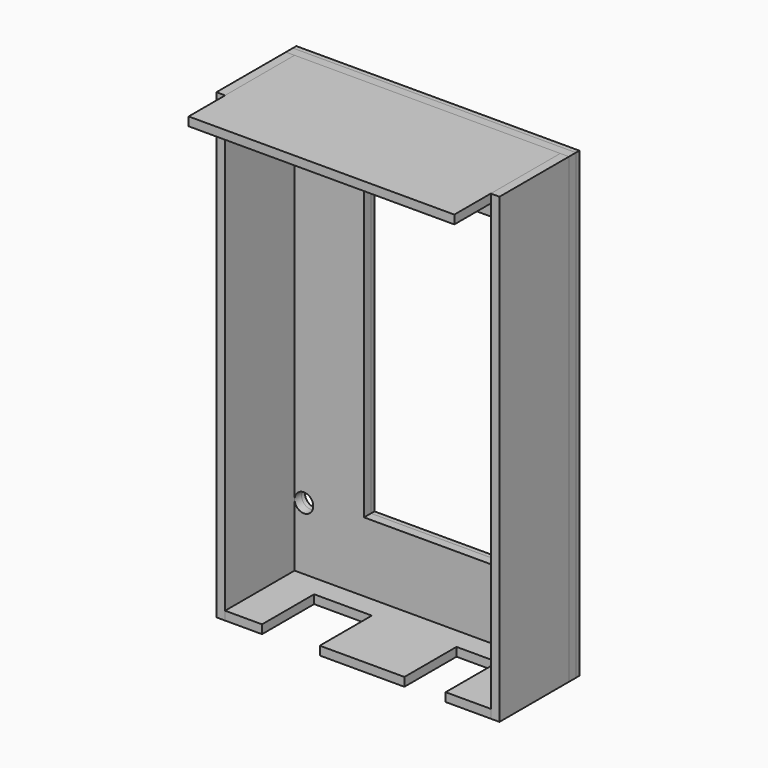
from build123d import *

# Parameters (mm, degrees)
F0_W      = 65.2
F0_H      = 106.5
F0_R      = 2.15
F0_W_2    = 29.2
F0_H_2    = 70.5
F1_DEPTH  = 3
F2_W      = 20
F2_H      = 106.5
F3_DEPTH  = 2
F4_W      = 20
F4_H      = 106.5
F5_DEPTH  = 2
F6_W      = 61.2
F6_H      = 30.5
F7_DEPTH  = 2
F9_DEPTH  = 2
F10_DEPTH = 2


with BuildPart() as f1:
    # F0 (on Front) → F1 (new body)
    with BuildSketch(Plane.XZ):
        with Locations((32.6, -53.25)):
            Rectangle(F0_W, F0_H)
        with Locations((4.15, -90.05)):
            Circle(F0_R, mode=Mode.SUBTRACT)
        with BuildLine():
            ThreePointArc((61.05, -91), (59.5297204204, -87.3297204204), (63.2, -88.85))
            ThreePointArc((63.2, -88.85), (62.5702795796, -90.3702795796), (61.05, -91))
        make_face(mode=Mode.SUBTRACT)
        with Locations((4.15, -7.15)):
            Circle(F0_R, mode=Mode.SUBTRACT)
        with Locations((32.6, -53.25)):
            Rectangle(F0_W_2, F0_H_2, mode=Mode.SUBTRACT)
        with Locations((61.05, -14.15)):
            Circle(F0_R, mode=Mode.SUBTRACT)
    extrude(amount=-F1_DEPTH)


with BuildPart() as f3:
    # F2 (on face) → F3 (new body)
    with BuildSketch(Plane.YZ.offset(65.2)):
        with Locations((-10, -53.25)):
            Rectangle(F2_W, F2_H)
    extrude(amount=-F3_DEPTH)


with BuildPart() as f5:
    # F4 (on face) → F5 (new body)
    with BuildSketch(Plane(origin=(0, 0, 0), x_dir=(0, -1, 0), z_dir=(-1, 0, 0))):
        with Locations((10, -53.25)):
            Rectangle(F4_W, F4_H)
    extrude(amount=-F5_DEPTH)


with BuildPart() as f7:
    # F6 (on face) → F7 (new body)
    with BuildSketch(Plane.XY):
        with Locations((32.6, -15.25)):
            Rectangle(F6_W, F6_H)
    extrude(amount=-F7_DEPTH)


with BuildPart() as f9:
    # F8 (on face) → F9 (new body)
    with BuildSketch(Plane(origin=(0, 0, -106.5), x_dir=(1, 0, 0), z_dir=(0, 0, -1))):
        Polygon((2, 20), (2, 0), (63.2, 0), (63.2, 20), (52.8, 20), (52.8, 5), (43.3, 5), (43.3, 20), (23.8, 20), (23.8, 5), (10.5, 5), (10.5, 20), align=None)
    extrude(amount=-F9_DEPTH)


with BuildPart() as f10:
    # F0 (on Front) → F10 (new body)
    with BuildSketch(Plane.XZ):
        with Locations((32.6, -53.25)):
            Rectangle(F0_W, F0_H)
        with Locations((4.15, -90.05)):
            Circle(F0_R, mode=Mode.SUBTRACT)
        with BuildLine():
            ThreePointArc((61.05, -91), (59.5297204204, -87.3297204204), (63.2, -88.85))
            ThreePointArc((63.2, -88.85), (62.5702795796, -90.3702795796), (61.05, -91))
        make_face(mode=Mode.SUBTRACT)
        with Locations((4.15, -7.15)):
            Circle(F0_R, mode=Mode.SUBTRACT)
        with Locations((32.6, -53.25)):
            Rectangle(F0_W_2, F0_H_2, mode=Mode.SUBTRACT)
        with Locations((61.05, -14.15)):
            Circle(F0_R, mode=Mode.SUBTRACT)
    extrude(amount=-F10_DEPTH)


solid = Compound([f1.part, f3.part, f5.part, f7.part, f9.part, f10.part])
